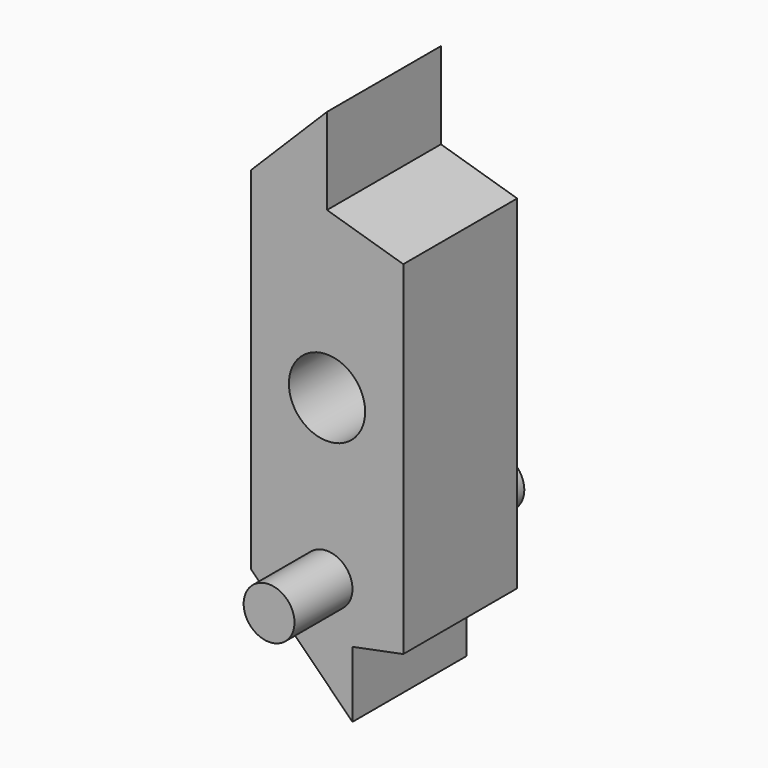
from build123d import *

# Parameters (mm, degrees)
F0_R     = 1
F0_R_2   = 1.5
F1_DEPTH = 2.8
F2_DEPTH = 5.65


with BuildPart() as f1:
    # F0 (on Front) → F1 (new body, symmetric)
    with BuildSketch(Plane.XZ):
        Polygon((0, 9.9), (-3, 6.9), (-3, -6.9), (1, -10.9), (1, -8.3), (3, -7.9), (3, 5.6), (0, 6.5), align=None)
        with Locations((0, -6.3)):
            Circle(F0_R, mode=Mode.SUBTRACT)
        Circle(F0_R_2, mode=Mode.SUBTRACT)
    extrude(amount=F1_DEPTH, both=True)

    # F0 (on Front) → F2 (join, symmetric)
    with BuildSketch(Plane.XZ):
        with Locations((0, -6.3)):
            Circle(F0_R)
    extrude(amount=F2_DEPTH, both=True)


solid = f1.part
